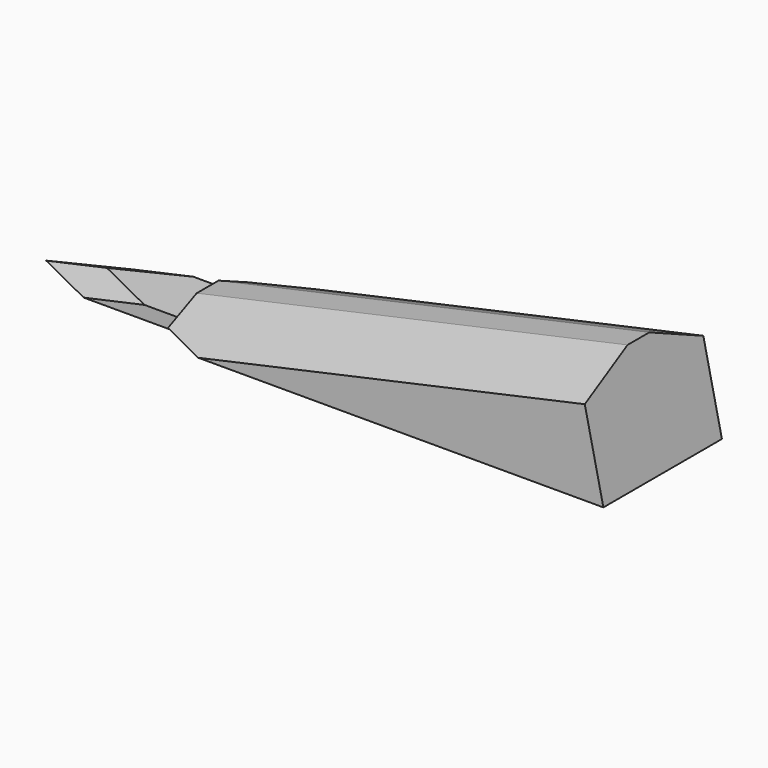
from build123d import *

# Parameters (mm, degrees)
F1_DEPTH  = 2.25
F3_DEPTH  = 12.5
F7_DEPTH  = 25
F11_DEPTH = 12.5
F13_DEPTH = 25


with BuildPart() as f1:
    # F0 (on Top) → F1 (new body)
    with BuildSketch(Plane.XY):
        Polygon((24.75, -5.15), (27.25, -5.15), (27.25, 5.15), (24.75, 5.15), (24.75, 4.4), (2.75, 4.4), (2.75, 5.15), (-27.25, 5.15), (-27.25, -5.15), (2.75, -5.15), (2.75, -4.4), (24.75, -4.4), align=None)
    extrude(amount=F1_DEPTH)

    # F2 (on Front) → F3 (cut, symmetric)
    with BuildSketch(Plane.XZ):
        Polygon((-27.25, 0), (-16.9939042516, 2.25), (-27.25, 2.25), align=None)
    extrude(amount=F3_DEPTH, both=True, mode=Mode.SUBTRACT)


with BuildPart() as f7:
    # F6 (on 3pt) → F7 (new body)
    with BuildSketch(Plane(origin=(-1.051611932, -2.1383754437, 4.7935256286), x_dir=(0.9805145264, -0.0800319539, 0.1794049886), z_dir=(-0.1964465921, -0.3994596826, 0.8954555815))):
        Polygon((-16.2591087544, 0.9166455588), (-26.7190208438, 0), (-16.0387651474, -4.7032411254), (-5.578853058, -3.7865955666), align=None)
        Polygon((-37.5846625228, 4.78487915), (-26.7190208438, 0), (-16.2591087544, 0.9166455588), (-27.1247504333, 5.7015247088), align=None)
        Polygon((-16.0387651474, -4.7032411254), (-26.7190208438, 0), (-37.5846625228, 4.78487915), (-43.2418280355, -7.0871585589), align=None)
    extrude(amount=F7_DEPTH)


with BuildPart() as f8_1:
    # F8: instance of F7
    add(f7.part.mirror(Plane.XZ))


with BuildPart() as f1_1:
    add(f1.part)

    # F9: cut F7, F8_1
    add(f7.part, mode=Mode.SUBTRACT)
    add(f8_1.part, mode=Mode.SUBTRACT)


with BuildPart() as f11:
    # F10 (on Front) → F11 (new body, symmetric)
    with BuildSketch(Plane.XZ):
        Polygon((72.689631743, 20.9011476375), (0, 4.9543706735), (0, 2.25), (76.7813527267, 2.25), align=None)
    extrude(amount=F11_DEPTH, both=True)


with BuildPart() as f13:
    # F12 (on face) → F13 (new body)
    with BuildSketch(Plane(origin=(-1.051611932, -2.1383754437, 4.7935256286), x_dir=(0.9805145264, -0.0800319539, 0.1794049886), z_dir=(-0.1964465921, -0.3994596826, 0.8954555815))):
        Polygon((-26.7190208438, 0), (-16.2591087544, 0.9166455588), (-5.578853058, -3.7865955666), (-16.0387651474, -4.7032411254), (83.7536636937, -48.6486174044), (103.4110658877, -4.0100211344), (-14.3110548824, 47.8310148406), (-33.9684570764, 3.1924185707), align=None)
    extrude(amount=F13_DEPTH)


with BuildPart() as f14_1:
    # F14: instance of F13
    add(f13.part.mirror(Plane.XZ))


with BuildPart() as f11_1:
    add(f11.part)

    # F15: cut F14_1, F13
    add(f14_1.part, mode=Mode.SUBTRACT)
    add(f13.part, mode=Mode.SUBTRACT)


solid = Compound([f1_1.part, f11_1.part])
